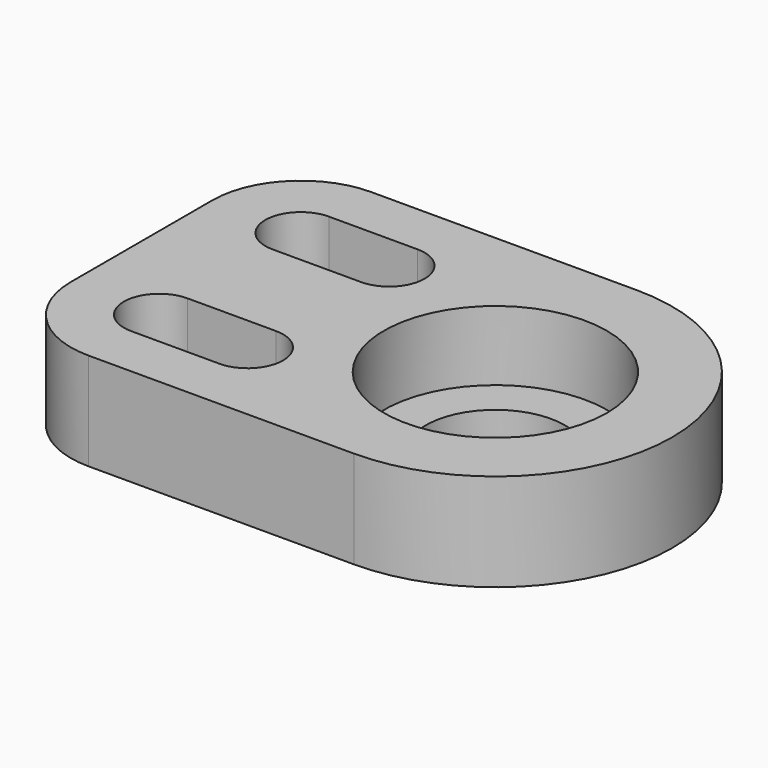
from build123d import *

# Parameters (mm, degrees)
F0_R     = 8
F1_DEPTH = 7
F2_R     = 8
F2_R_2   = 5
F3_DEPTH = 2


with BuildPart() as f1:
    # F0 (on Top) → F1 (new body)
    with BuildSketch(Plane.XY):
        with BuildLine():
            ThreePointArc((0, -12.7), (12.7, 0), (0, 12.7))
            Line((0, 12.7), (-19.05, 12.7))
            ThreePointArc((-19.05, 12.7), (-23.540128, 10.840128), (-25.4, 6.35))
            Line((-25.4, 6.35), (-25.4, -6.35))
            ThreePointArc((-25.4, -6.35), (-23.540128, -10.840128), (-19.05, -12.7))
            Line((-19.05, -12.7), (0, -12.7))
        make_face()
        with BuildLine():
            Line((-12.7, -8.89), (-19.05, -8.89))
            ThreePointArc((-19.05, -8.89), (-21.59, -6.35), (-19.05, -3.81))
            Line((-19.05, -3.81), (-12.7, -3.81))
            ThreePointArc((-12.7, -3.81), (-10.16, -6.35), (-12.7, -8.89))
        make_face(mode=Mode.SUBTRACT)
        Circle(F0_R, mode=Mode.SUBTRACT)
        with BuildLine():
            Line((-12.7, 3.81), (-19.05, 3.81))
            ThreePointArc((-19.05, 3.81), (-21.59, 6.35), (-19.05, 8.89))
            Line((-19.05, 8.89), (-12.7, 8.89))
            ThreePointArc((-12.7, 8.89), (-10.16, 6.35), (-12.7, 3.81))
        make_face(mode=Mode.SUBTRACT)
    extrude(amount=F1_DEPTH)

    # F2 (on face) → F3 (join)
    with BuildSketch(Plane(origin=(0, 0, 0), x_dir=(1, 0, 0), z_dir=(0, 0, -1))):
        Circle(F2_R)
        Circle(F2_R_2, mode=Mode.SUBTRACT)
    extrude(amount=-F3_DEPTH)


solid = f1.part
